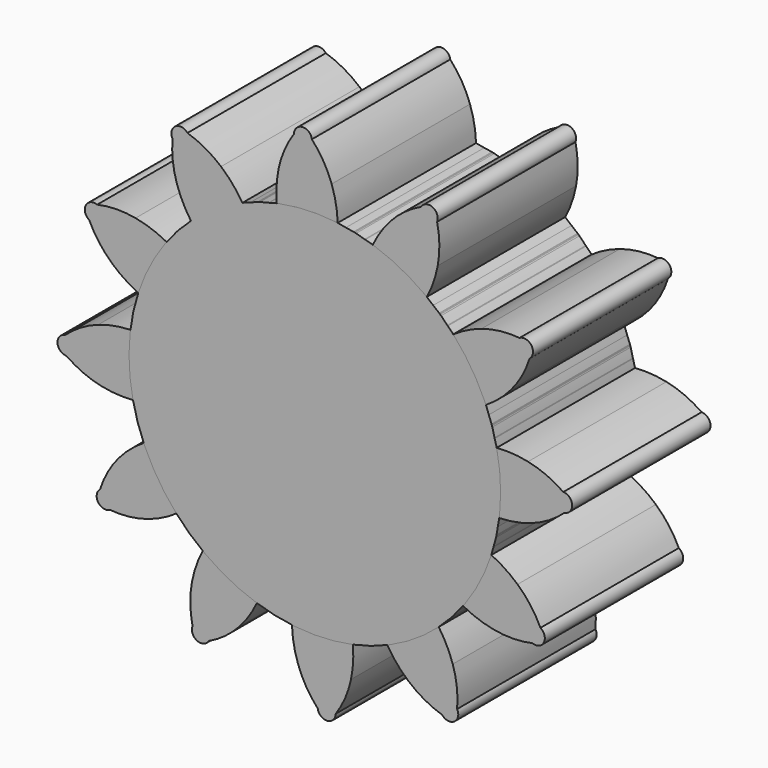
from build123d import *

# Parameters (mm, degrees)
F1_DEPTH = 25
F2_COUNT = 12


with BuildPart() as f1:
    # F0 (on Front) → F1 (new body)
    with BuildSketch(Plane.XZ):
        with BuildLine():
            ThreePointArc((-5.503732, 26.290595), (-16.93596, -20.848495), (26.8605, 0))
            ThreePointArc((26.8605, 0), (20.128443, 17.785732), (3.306786, 26.656174))
            ThreePointArc((3.306786, 26.656174), (-1.113577, 26.837407), (-5.503732, 26.290595))
        make_face()
        with BuildLine():
            ThreePointArc((-5.503732, 26.290595), (-1.113577, 26.837407), (3.306786, 26.656174))
            ThreePointArc((3.306786, 26.656174), (3.050539, 29.025405), (2.432107, 31.326809))
            ThreePointArc((2.432107, 31.326809), (1.243274, 33.851272), (-0.424334, 36.08853))
            ThreePointArc((-0.424334, 36.08853), (-1.79866, 37.201835), (-3.015913, 35.918669))
            ThreePointArc((-3.015913, 35.918669), (-4.377234, 33.482885), (-5.226387, 30.824844))
            ThreePointArc((-5.226387, 30.824844), (-5.53304, 28.567995), (-5.503732, 26.290595))
        make_face()
    extrude(amount=F1_DEPTH)


with BuildPart() as f2_1:
    # F2: instance of F1
    add(f1.part.rotate(Axis((0, 0, 0), (0, 1, 0)), 1 * 360 / F2_COUNT))


with BuildPart() as f2_2:
    # F2: instance of F1
    add(f1.part.rotate(Axis((0, 0, 0), (0, 1, 0)), 2 * 360 / F2_COUNT))


with BuildPart() as f2_3:
    # F2: instance of F1
    add(f1.part.rotate(Axis((0, 0, 0), (0, 1, 0)), 3 * 360 / F2_COUNT))


with BuildPart() as f2_4:
    # F2: instance of F1
    add(f1.part.rotate(Axis((0, 0, 0), (0, 1, 0)), 4 * 360 / F2_COUNT))


with BuildPart() as f2_5:
    # F2: instance of F1
    add(f1.part.rotate(Axis((0, 0, 0), (0, 1, 0)), 5 * 360 / F2_COUNT))


with BuildPart() as f2_6:
    # F2: instance of F1
    add(f1.part.rotate(Axis((0, 0, 0), (0, 1, 0)), 6 * 360 / F2_COUNT))


with BuildPart() as f2_7:
    # F2: instance of F1
    add(f1.part.rotate(Axis((0, 0, 0), (0, 1, 0)), 7 * 360 / F2_COUNT))


with BuildPart() as f2_8:
    # F2: instance of F1
    add(f1.part.rotate(Axis((0, 0, 0), (0, 1, 0)), 8 * 360 / F2_COUNT))


with BuildPart() as f2_9:
    # F2: instance of F1
    add(f1.part.rotate(Axis((0, 0, 0), (0, 1, 0)), 9 * 360 / F2_COUNT))


with BuildPart() as f2_10:
    # F2: instance of F1
    add(f1.part.rotate(Axis((0, 0, 0), (0, 1, 0)), 10 * 360 / F2_COUNT))


with BuildPart() as f2_11:
    # F2: instance of F1
    add(f1.part.rotate(Axis((0, 0, 0), (0, 1, 0)), 11 * 360 / F2_COUNT))


solid = Compound([f1.part, f2_1.part, f2_2.part, f2_3.part, f2_4.part, f2_5.part, f2_6.part, f2_7.part, f2_8.part, f2_9.part, f2_10.part, f2_11.part])
